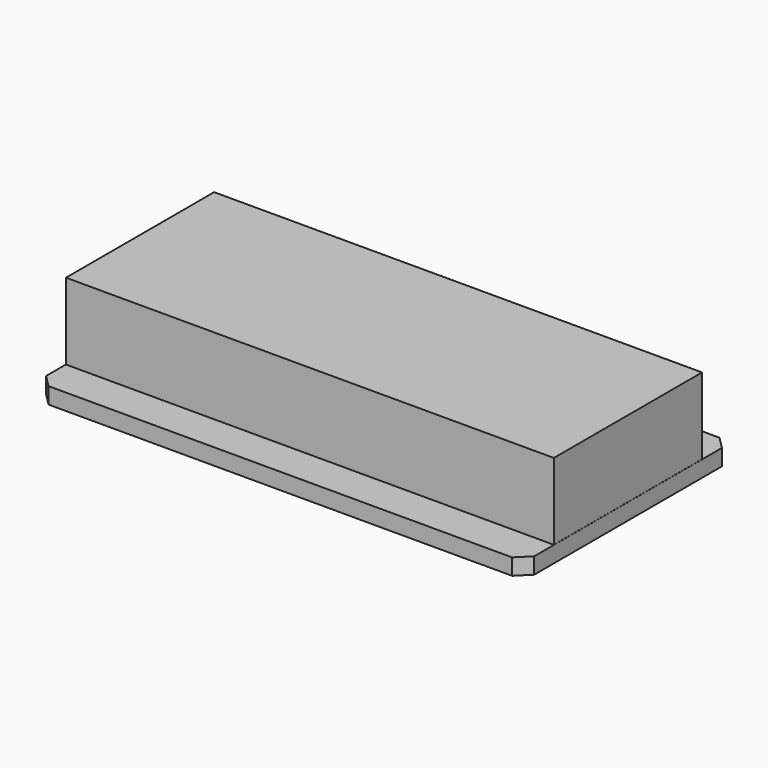
from build123d import *

# Parameters (mm, degrees)
F0_W     = 50.3428
F0_H     = 26.7335
F1_DEPTH = 1.6764
F2_W     = 50.3174
F2_H     = 19.1008
F3_DEPTH = 7.8867
F4_W     = 23.241
F4_H     = 17.78
F5_DEPTH = 2.794
F6_R     = 0.635
F7_DEPTH = 25.4
F8_SIZE  = 1.27


with BuildPart() as f1:
    # F0 (on Top) → F1 (new body)
    with BuildSketch(Plane.XY):
        Rectangle(F0_W, F0_H)
    extrude(amount=-F1_DEPTH)

    # F2 (on Top) → F3 (join)
    with BuildSketch(Plane.XY):
        Rectangle(F2_W, F2_H)
    extrude(amount=F3_DEPTH)

    # F4 (on face) → F5 (join)
    with BuildSketch(Plane(origin=(0, 0, -1.6764), x_dir=(1, 0, 0), z_dir=(0, 0, -1))):
        Rectangle(F4_W, F4_H)
    extrude(amount=F5_DEPTH)

    # F6 (on Top) → F7 (cut)
    with BuildSketch(Plane.XY):
        with Locations((-3.81, 11.46175)):
            Circle(F6_R)
        with Locations((-1.27, 11.46175)):
            Circle(F6_R)
        with Locations((1.27, 11.46175)):
            Circle(F6_R)
        with Locations((3.81, 11.46175)):
            Circle(F6_R)
    extrude(amount=-F7_DEPTH, mode=Mode.SUBTRACT)

    # F8
    f8_edges = [f1.edges().sort_by_distance(p)[0] for p in [
        (25.1714, 13.36675, -0.8382),
        (25.1714, -13.36675, -0.8382),
        (-25.1714, -13.36675, -0.8382),
        (-25.1714, 13.36675, -0.8382),
    ]]
    chamfer(f8_edges, length=F8_SIZE)


solid = f1.part
